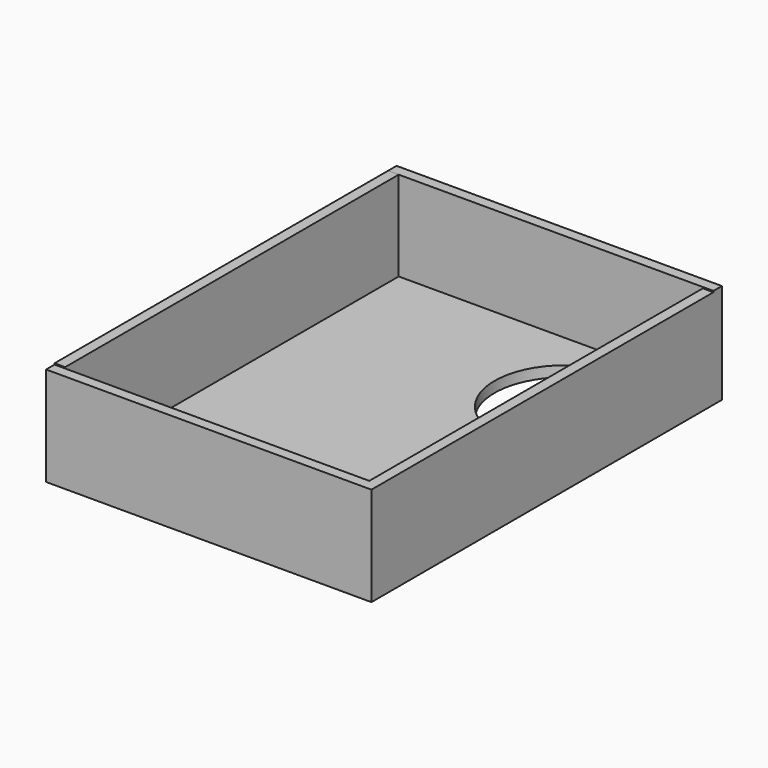
from build123d import *

# Parameters (mm, degrees)
F0_W      = 78.04359
F0_H      = 105.09279
F0_R      = 16.850319
F1_DEPTH  = 2.54
F2_W      = 78.04359
F2_H      = 21.505939
F3_DEPTH  = 2.54
F4_W      = 78.04359
F4_H      = 21.21968
F5_DEPTH  = 2.54
F7_DEPTH  = 2.54
F8_W      = 100.01279
F8_H      = 21.21968
F9_DEPTH  = 2.54
F10_W     = 17.748192
F10_H     = 8.874096
F11_DEPTH = 7.62


with BuildPart() as f1:
    # F0 (on Top) → F1 (new body)
    with BuildSketch(Plane.XY):
        with Locations((19.510894, 11.085736)):
            Rectangle(F0_W, F0_H)
        with Locations((40.35208, 39.243508)):
            Circle(F0_R, mode=Mode.SUBTRACT)
    extrude(amount=F1_DEPTH)

    # F2 (on face) → F3 (join)
    with BuildSketch(Plane(origin=(0, 63.632131, 0), x_dir=(-1, 0, 0), z_dir=(0, 1, 0))):
        with Locations((-19.510894, 13.292969)):
            Rectangle(F2_W, F2_H)
    extrude(amount=-F3_DEPTH)

    # F4 (on face) → F5 (join)
    with BuildSketch(Plane.XZ.offset(41.460659)):
        with Locations((19.510894, 13.14984)):
            Rectangle(F4_W, F4_H)
    extrude(amount=-F5_DEPTH)

    # F6 (on face) → F7 (join)
    with BuildSketch(Plane(origin=(-19.510901, 0, 0), x_dir=(0, -1, 0), z_dir=(-1, 0, 0))):
        Polygon((38.920659, 24.045939), (-61.092131, 24.045939), (-61.092131, 2.54), (38.920659, 2.54), (38.920659, 23.75968), align=None)
    extrude(amount=-F7_DEPTH)

    # F8 (on face) → F9 (join)
    with BuildSketch(Plane.YZ.offset(58.532689)):
        with Locations((11.085736, 13.14984)):
            Rectangle(F8_W, F8_H)
    extrude(amount=-F9_DEPTH)

    # F10 (on face) → F11 (join)
    with BuildSketch(Plane(origin=(-19.510901, 0, 0), x_dir=(0, -1, 0), z_dir=(-1, 0, 0))):
        with Locations((-29.05551, 12.738623)):
            Rectangle(F10_W, F10_H)
    extrude(amount=F11_DEPTH)


solid = f1.part
